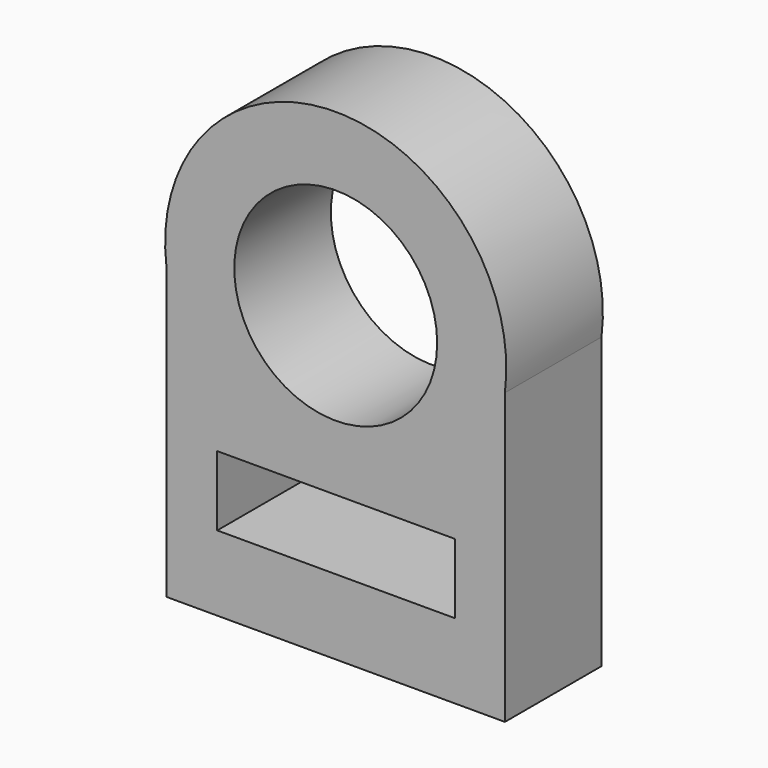
from build123d import *

# Parameters (mm, degrees)
F0_W     = 49.235915
F0_H     = 14.462238
F0_R     = 21.012686
F1_DEPTH = 25


with BuildPart() as f1:
    # F0 (on Front) → F1 (new body)
    with BuildSketch(Plane.XZ):
        with BuildLine():
            ThreePointArc((70.080705, 0), (35.040352, 39.844464), (0, 0))
            Line((0, 0), (0, -60.007501))
            Line((0, -60.007501), (70.080705, -60.007501))
            Line((70.080705, -60.007501), (70.080705, 0))
        make_face()
        with Locations((35.122868, -37.23487)):
            Rectangle(F0_W, F0_H, mode=Mode.SUBTRACT)
        with Locations((35.040352, 4.514492)):
            Circle(F0_R, mode=Mode.SUBTRACT)
    extrude(amount=F1_DEPTH)


solid = f1.part
